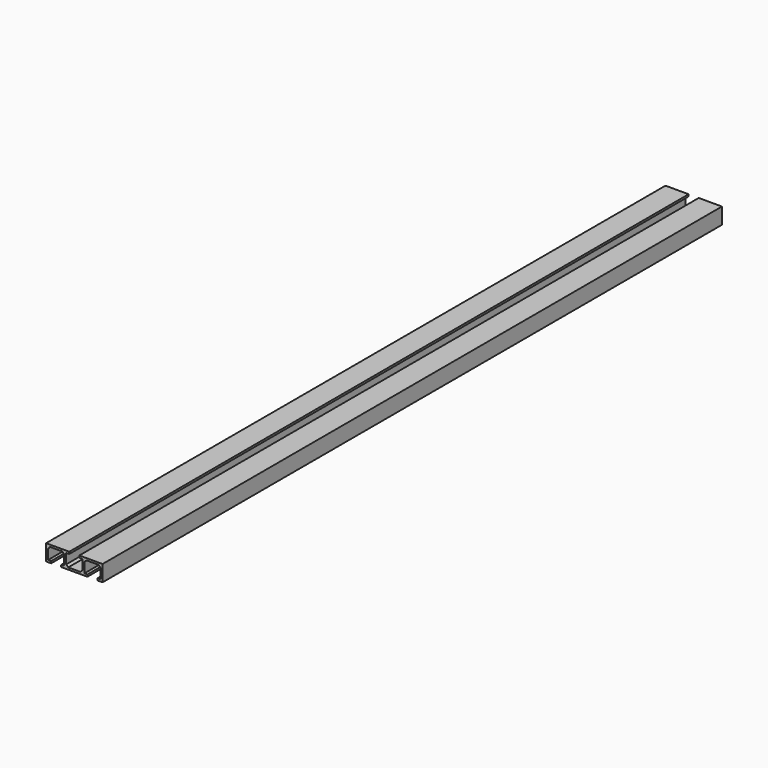
from build123d import *

# Parameters (mm, degrees)
F1_DEPTH = 609.6
F2_SIZE  = 1.5875
F5_W     = 34.925
F5_H     = 12.7
F6_DEPTH = 609.601


with BuildPart() as f1:
    # F0 (on Front) → F1 (new body)
    with BuildSketch(Plane.XZ):
        Polygon((0, 1.5875), (0, 0), (10.31875, 0), (10.31875, 1.5875), (7.9375, 1.5875), (7.9375, 11.1125), (14.2875, 11.1125), (14.2875, 12.7), (3.96875, 12.7), (3.96875, 11.1125), (6.35, 11.1125), (6.35, 1.5875), align=None)
    extrude(amount=F1_DEPTH)

    # F2
    f2_edges = [f1.edges().sort_by_distance(p)[0] for p in [
        (6.35, -304.8, 1.5875),
        (7.9375, -304.8, 11.1125),
    ]]
    chamfer(f2_edges, length=F2_SIZE)

    # F3: F1 across face


with BuildPart() as f1_1:
    add(f1.part)
    add(f1.part.mirror(Plane(origin=(14.2875, -304.8, 11.90625), x_dir=(0, 1, 0), z_dir=(1, 0, 0))))

    # F4: F1 across face


with BuildPart() as f1_2:
    add(f1_1.part)
    add(f1_1.part.mirror(Plane(origin=(28.575, -304.8, 0.79375), x_dir=(0, 1, 0), z_dir=(1, 0, 0))))

    # F5 (on face) → F6 (cut, through all)
    with BuildSketch(Plane.XZ.offset(609.6)):
        with Locations((39.6875, 6.35)):
            Rectangle(F5_W, F5_H)
    extrude(amount=-F6_DEPTH, mode=Mode.SUBTRACT)

    # F7: F1 across face


with BuildPart() as f1_3:
    add(f1_2.part)
    add(f1_2.part.mirror(Plane(origin=(0, -304.8, 0.79375), x_dir=(0, -1, 0), z_dir=(-1, 0, 0))))


solid = f1_3.part
